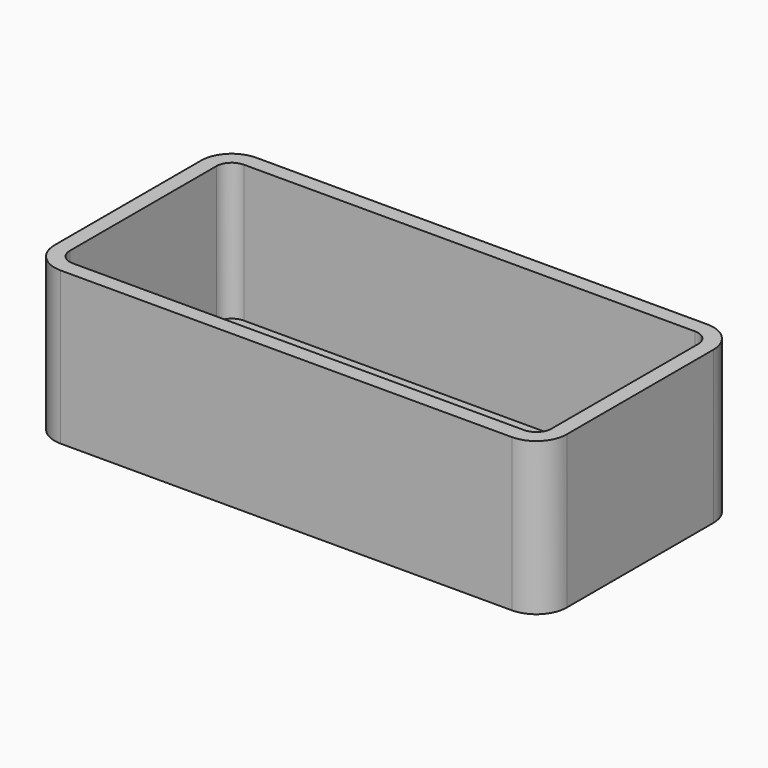
from build123d import *

# Parameters (mm, degrees)
F0_W     = 85.31113
F0_H     = 40.683054
F1_DEPTH = 12.7
F2_R     = 5.08
F3_T     = -2.54
F5_DEPTH = 2.54


with BuildPart() as f1:
    # F0 (on Top) → F1 (new body, symmetric)
    with BuildSketch(Plane.XY):
        Rectangle(F0_W, F0_H)
    extrude(amount=F1_DEPTH, both=True)

    # F2
    f2_edges = [f1.edges().sort_by_distance(p)[0] for p in [
        (42.655565, -20.341527, 0),
        (42.655565, 20.341527, 0),
        (-42.655565, -20.341527, 0),
        (-42.655565, 20.341527, 0),
    ]]
    fillet(f2_edges, radius=F2_R)

    # F3
    f3_openings = [f1.faces().sort_by_distance(p)[0] for p in [
        (0, 0, 12.7),
    ]]
    offset(amount=F3_T, openings=f3_openings)

    # F4 (on face) → F5 (cut, through all)
    with BuildSketch(Plane.XY.offset(-10.16)):
        Polygon((-7.482303, 5.966937), (-9.330279, -2.129575), (-4.152365, -8.622474), (4.152365, -8.622474), (9.330279, -2.129575), (7.482303, 5.966937), (0, 9.570225), align=None)
    extrude(amount=-F5_DEPTH, mode=Mode.SUBTRACT)


solid = f1.part
